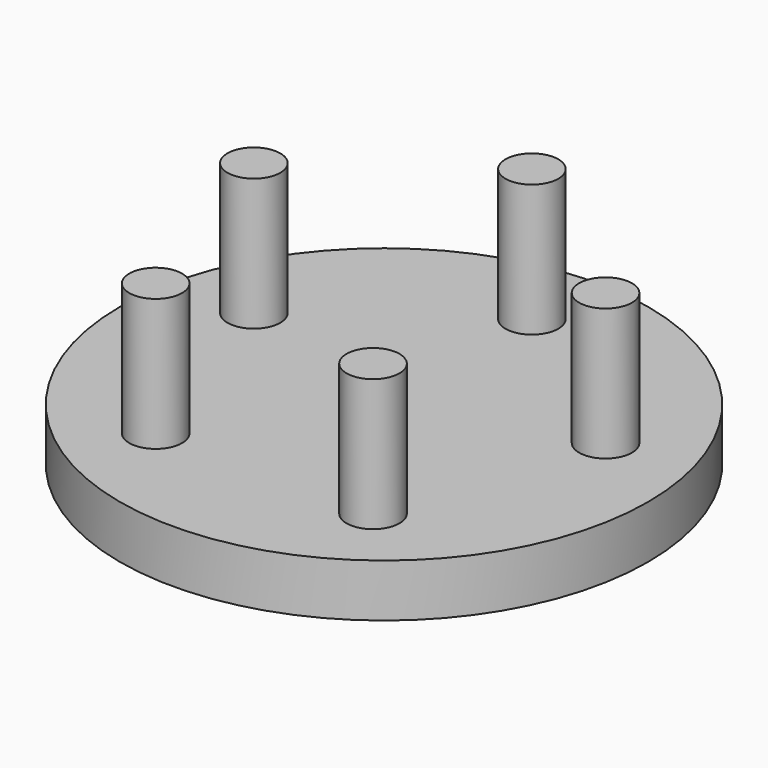
from build123d import *

# Parameters (mm, degrees)
F0_R     = 50
F1_DEPTH = 5
F2_R     = 5
F3_DEPTH = 25


with BuildPart() as f1:
    # F0 (on Top) → F1 (new body, symmetric)
    with BuildSketch(Plane.XY):
        Circle(F0_R)
    extrude(amount=F1_DEPTH, both=True)


with BuildPart() as f3:
    # F2 (on face) → F3 (new body)
    with BuildSketch(Plane.XY.offset(5)):
        with Locations((0, 35)):
            Circle(F2_R)
        with Locations((-33.286978, 10.815595)):
            Circle(F2_R)
        with Locations((-20.572484, -28.315595)):
            Circle(F2_R)
        with Locations((20.572484, -28.315595)):
            Circle(F2_R)
        with Locations((33.286978, 10.815595)):
            Circle(F2_R)
    extrude(amount=F3_DEPTH)


solid = Compound([f1.part, f3.part])
